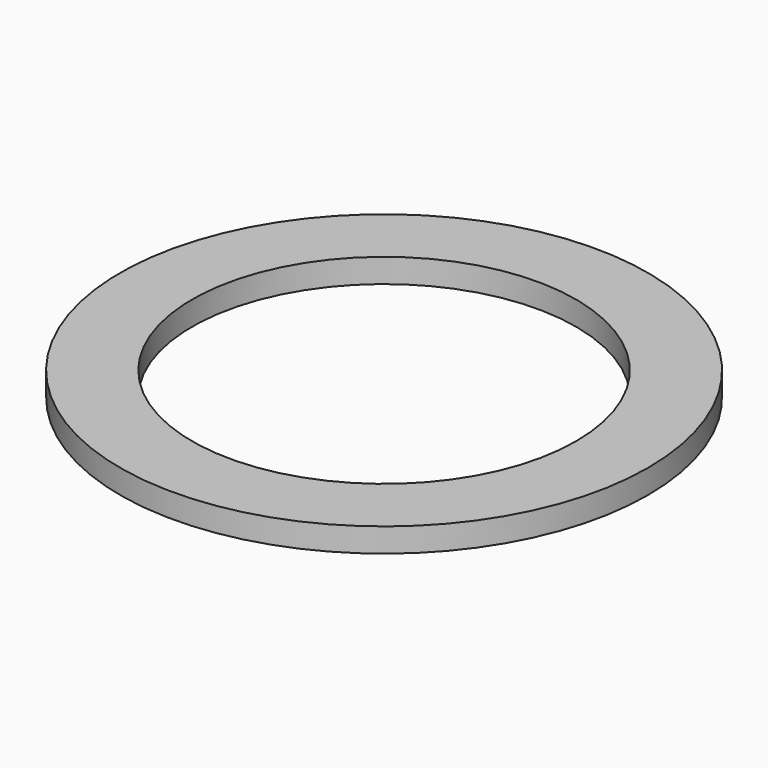
from build123d import *

# Parameters (mm, degrees)
SKETCH_R   = 11
SKETCH_R_2 = 8
PAD_DEPTH  = 1


with BuildPart() as part:
    # Sketch → Pad (new body)
    with BuildSketch(Plane.XY):
        Circle(SKETCH_R)
        Circle(SKETCH_R_2, mode=Mode.SUBTRACT)
    extrude(amount=PAD_DEPTH)


solid = part.part
